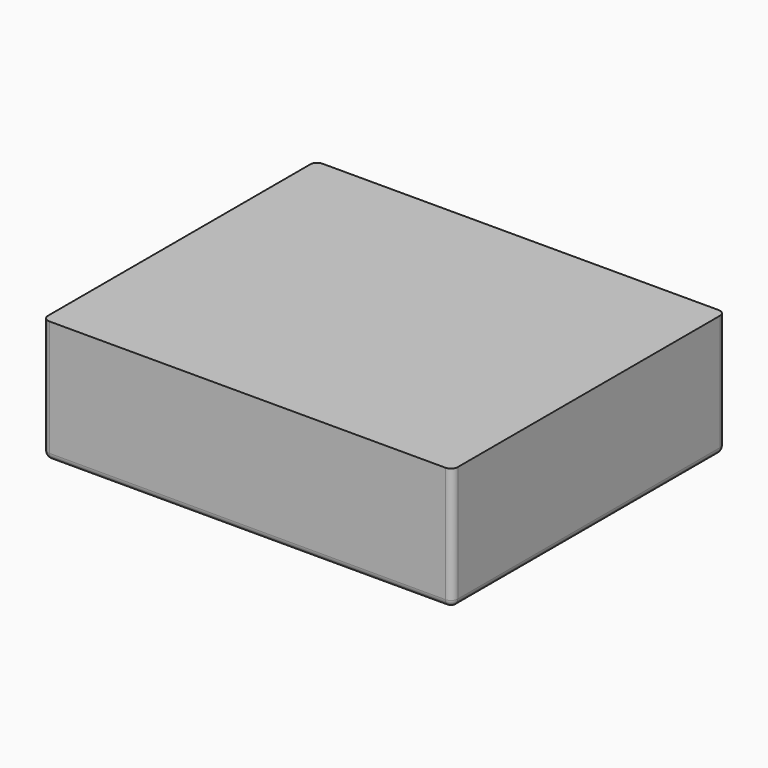
from build123d import *

# Parameters (mm, degrees)
F0_W     = 76.2
F0_H     = 63.5
F0_W_2   = 2.54
F0_H_2   = 27.94
F0_H_3   = 12.7
F1_DEPTH = 22.86
F2_W     = 76.2
F2_H     = 63.5
F3_DEPTH = 2.032
F4_R     = 1.27
F5_R     = 1


with BuildPart() as f1:
    # F0 (on Top) → F1 (new body)
    with BuildSketch(Plane.XY):
        with Locations((38.1, 31.75)):
            Rectangle(F0_W, F0_H)
        Polygon((2.54, 48.26), (2.54, 60.96), (73.66, 60.96), (73.66, 48.26), (73.66, 45.72), (73.66, 33.02), (73.66, 30.48), (73.66, 2.54), (41.4866666667, 2.54), (38.9466666667, 2.54), (22.0133333333, 2.54), (19.4733333333, 2.54), (2.54, 2.54), (2.54, 30.48), (2.54, 33.02), (2.54, 45.72), align=None, mode=Mode.SUBTRACT)
        Polygon((73.66, 48.26), (2.54, 48.26), (2.54, 45.72), (37.465, 45.72), (40.005, 45.72), (73.66, 45.72), align=None)
        Polygon((37.465, 33.02), (2.54, 33.02), (2.54, 30.48), (19.4733333333, 30.48), (22.0133333333, 30.48), (38.9466666667, 30.48), (41.4866666667, 30.48), (73.66, 30.48), (73.66, 33.02), (40.005, 33.02), align=None)
        with Locations((20.7433333333, 16.51)):
            Rectangle(F0_W_2, F0_H_2)
        with Locations((40.2166666667, 16.51)):
            Rectangle(F0_W_2, F0_H_2)
        with Locations((38.735, 39.37)):
            Rectangle(F0_W_2, F0_H_3)
    extrude(amount=F1_DEPTH)

    # F2 (on face) → F3 (join)
    with BuildSketch(Plane.XY.offset(22.86)):
        with Locations((38.1, 31.75)):
            Rectangle(F2_W, F2_H)
    extrude(amount=-F3_DEPTH)

    # F4
    f4_edges = [f1.edges().sort_by_distance(p)[0] for p in [
        (76.2, 31.75, 0),
        (38.1, 0, 0),
        (0, 31.75, 0),
        (38.1, 63.5, 0),
        (0, 63.5, 11.43),
        (76.2, 63.5, 11.43),
        (0, 0, 11.43),
        (76.2, 0, 11.43),
    ]]
    fillet(f4_edges, radius=F4_R)

    # F5
    f5_edges = [f1.edges().sort_by_distance(p)[0] for p in [
        (73.66, 60.96, 10.414),
        (73.66, 48.26, 10.414),
        (73.66, 33.02, 10.414),
        (73.66, 2.54, 10.414),
        (38.946667, 2.54, 10.414),
        (19.473333, 2.54, 10.414),
        (19.473333, 30.48, 10.414),
        (38.946667, 30.48, 10.414),
        (2.54, 30.48, 10.414),
        (2.54, 2.54, 10.414),
        (2.54, 45.72, 10.414),
        (2.54, 33.02, 10.414),
        (73.66, 45.72, 10.414),
        (41.486667, 30.48, 10.414),
        (41.486667, 2.54, 10.414),
        (2.54, 60.96, 10.414),
        (2.54, 48.26, 10.414),
        (73.66, 30.48, 10.414),
        (22.013333, 2.54, 10.414),
        (22.013333, 30.48, 10.414),
        (40.005, 33.02, 10.414),
        (40.005, 45.72, 10.414),
        (37.465, 45.72, 10.414),
        (37.465, 33.02, 10.414),
    ]]
    fillet(f5_edges, radius=F5_R)


solid = f1.part
